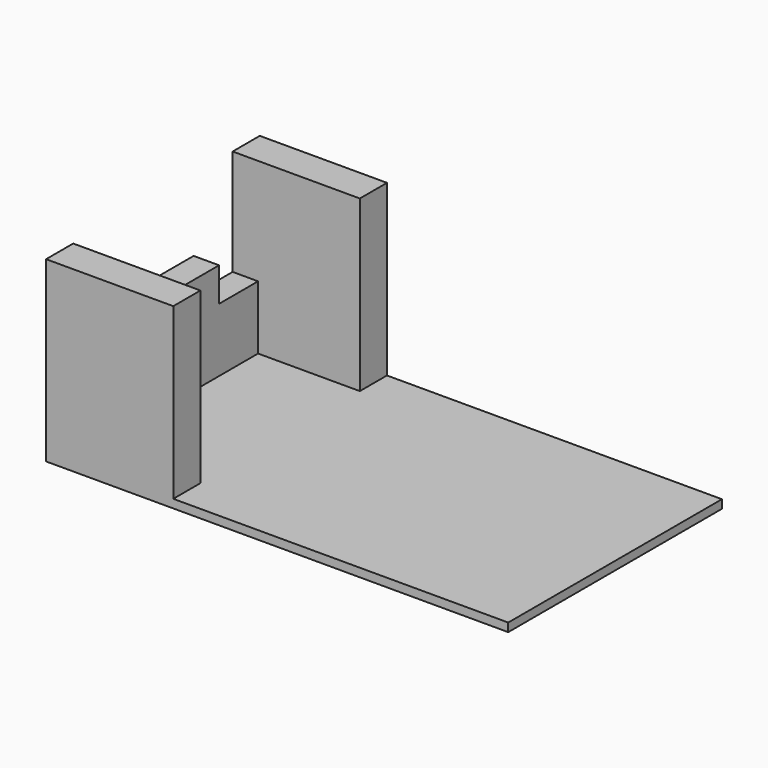
from build123d import *

# Parameters (mm, degrees)
SKETCH_W     = 109
SKETCH_H     = 63
PAD_DEPTH    = 2
SKETCH001_W  = 30
SKETCH001_H  = 8
PAD001_DEPTH = 40
SKETCH002_W  = 6
SKETCH002_H  = 47
PAD002_DEPTH = 15
SKETCH003_W  = 6
SKETCH003_H  = 24
PAD003_DEPTH = 8


with BuildPart() as part:
    # Sketch → Pad (new body)
    with BuildSketch(Plane.XY):
        Rectangle(SKETCH_W, SKETCH_H)
    extrude(amount=PAD_DEPTH)

    # Sketch001 → Pad001 (new body)
    with BuildSketch(Plane.XY.offset(2)):
        with Locations((-39.5, 27.5)):
            Rectangle(SKETCH001_W, SKETCH001_H)
        with Locations((-39.5, -27.5)):
            Rectangle(SKETCH001_W, SKETCH001_H)
    extrude(amount=PAD001_DEPTH)

    # Sketch002 → Pad002 (new body)
    with BuildSketch(Plane.XY.offset(2)):
        with Locations((-51.5, 0)):
            Rectangle(SKETCH002_W, SKETCH002_H)
    extrude(amount=PAD002_DEPTH)

    # Sketch003 → Pad003 (new body)
    with BuildSketch(Plane.XY.offset(17)):
        with Locations((-51.5, 0)):
            Rectangle(SKETCH003_W, SKETCH003_H)
    extrude(amount=PAD003_DEPTH)


solid = part.part
